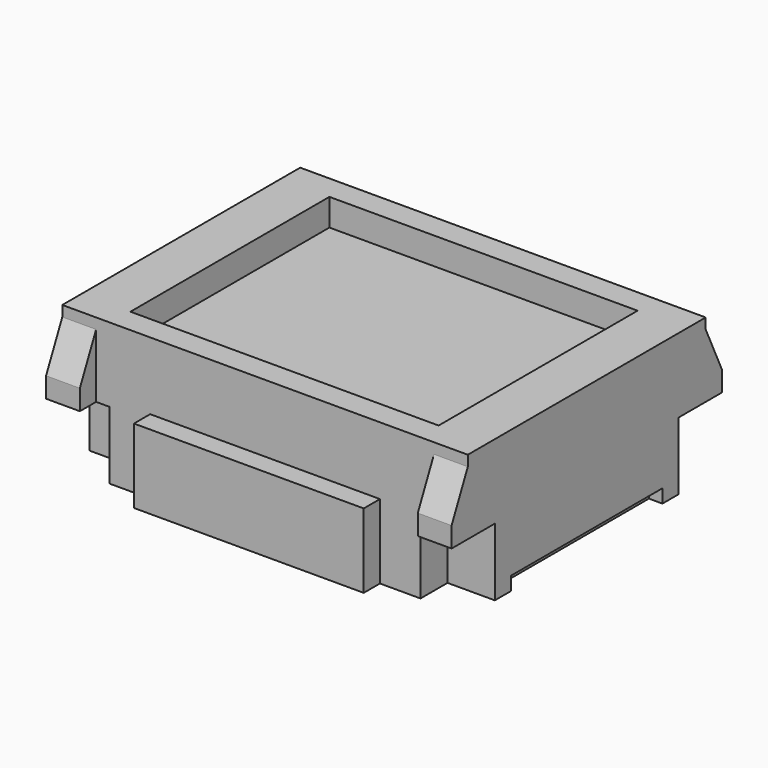
from build123d import *

# Parameters (mm, degrees)
SKETCH_W                   = 3
SKETCH_H                   = 2.5
PAD_DEPTH                  = 1.05
POCKET_DEPTH               = 0.15
SKETCH003_W                = 0.35
SKETCH003_H                = 0.5
POCKET002_DEPTH            = 0.25
POCKET_MIRRORED_2_DEPTH    = 0.15
SKETCH003_MIRRORED_2_W     = 0.35
SKETCH003_MIRRORED_2_H     = 0.5
POCKET002_MIRRORED_2_DEPTH = 0.25
POCKET001_DEPTH            = 9.588645
POCKET001_DEPTH_BACK       = 9.588645
SKETCH012_W                = 0.1
SKETCH012_H                = 1.4
POCKET003_DEPTH            = 0.1
SKETCH013_W                = 2.28
SKETCH013_H                = 1.84
POCKET004_DEPTH            = 0.2


with BuildPart() as part:
    # Sketch → Pad (new body)
    with BuildSketch(Plane.XY):
        Rectangle(SKETCH_W, SKETCH_H)
    extrude(amount=PAD_DEPTH)

    # Sketch001 (on Face1 of Pad) → Pocket (cut)
    with BuildSketch(Plane.XZ.offset(1.25)):
        Polygon((-1.5, 0), (-0.85, 0), (-0.85, 0.55), (0, 0.55), (0, 1.05), (-1.25, 1.05), (-1.25, 0.5), (-1.5, 0.5), align=None)
    pocket = extrude(amount=-POCKET_DEPTH, mode=Mode.SUBTRACT)

    # Sketch003 (on Face8 of Pocket) → Pocket002 (cut)
    with BuildSketch(Plane.XZ.offset(1.1)):
        with Locations((-1.325, 0.25)):
            Rectangle(SKETCH003_W, SKETCH003_H)
    pocket002 = extrude(amount=-POCKET002_DEPTH, mode=Mode.SUBTRACT)

    # Sketch001 Mirrored 2 → Pocket Mirrored 2 (cut)
    with BuildSketch(Plane(origin=(0, -1.25, 0), x_dir=(-1, 0, 0), z_dir=(0, 1, 0))):
        Polygon((-1.5, 0), (-0.85, 0), (-0.85, 0.55), (0, 0.55), (0, 1.05), (-1.25, 1.05), (-1.25, 0.5), (-1.5, 0.5), align=None)
    pocket_mirrored_2 = extrude(amount=POCKET_MIRRORED_2_DEPTH, mode=Mode.SUBTRACT)

    # Sketch003 Mirrored 2 → Pocket002 Mirrored 2 (cut)
    with BuildSketch(Plane(origin=(0, -1.1, 0), x_dir=(-1, 0, 0), z_dir=(0, 1, 0))):
        with Locations((-1.325, 0.25)):
            Rectangle(SKETCH003_MIRRORED_2_W, SKETCH003_MIRRORED_2_H)
    pocket002_mirrored_2 = extrude(amount=POCKET002_MIRRORED_2_DEPTH, mode=Mode.SUBTRACT)

    # Mirrored001: Pocket, Pocket002, Pocket Mirrored 2, Pocket002 Mirrored 2 across XZ
    add(pocket.mirror(Plane.XZ), mode=Mode.SUBTRACT)
    add(pocket002.mirror(Plane.XZ), mode=Mode.SUBTRACT)
    add(pocket_mirrored_2.mirror(Plane.XZ), mode=Mode.SUBTRACT)
    add(pocket002_mirrored_2.mirror(Plane.XZ), mode=Mode.SUBTRACT)

    # Sketch002 → Pocket001 (cut, two sides)
    with BuildSketch(Plane.YZ) as pocket001_sk:
        Polygon((-1.1, 1.05), (-1.25, 1.05), (-1.25, 0.65), (-1.1, 0.971676), align=None)
    pocket001 = extrude(amount=-POCKET001_DEPTH, mode=Mode.SUBTRACT) + extrude(pocket001_sk.sketch, amount=POCKET001_DEPTH_BACK, mode=Mode.SUBTRACT)

    # Mirrored002: Pocket001 across Sketch002 V_Axis
    add(pocket001.mirror(Plane(origin=(0, 0, 0), x_dir=(1, 0, 0), z_dir=(0, 1, 0))), mode=Mode.SUBTRACT)

    # Sketch012 → Pocket003 (cut)
    with BuildSketch(Plane.XY):
        with Locations((1.45, 0)):
            Rectangle(SKETCH012_W, SKETCH012_H)
        with Locations((-1.45, 0)):
            Rectangle(SKETCH012_W, SKETCH012_H)
    extrude(amount=POCKET003_DEPTH, mode=Mode.SUBTRACT)

    # Sketch013 (on Face14 of Pocket003) → Pocket004 (cut)
    with BuildSketch(Plane.XY.offset(1.05)):
        Rectangle(SKETCH013_W, SKETCH013_H)
    extrude(amount=-POCKET004_DEPTH, mode=Mode.SUBTRACT)


solid = part.part
